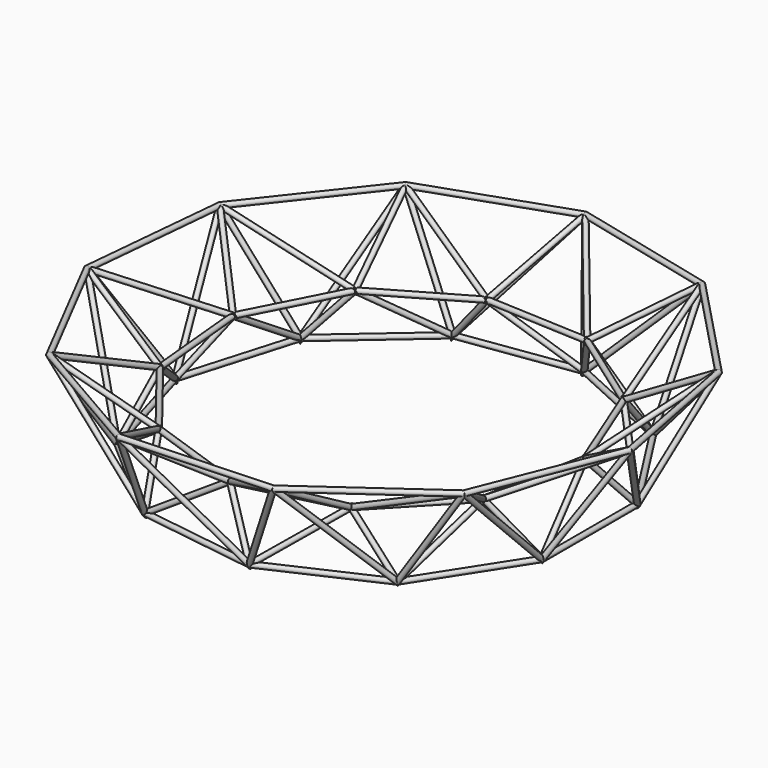
from build123d import *

# Parameters (mm, degrees)
F3_R      = 0.5
F8_R      = 0.5
F13_R     = 0.5
F18_R     = 0.5
F23_R     = 0.5
F28_R     = 0.5
F30_COUNT = 11
F30_ANGLE = 327.2727272727


with BuildPart() as f4:
    # F4: sweep along a path in F1
    with BuildLine(Plane.XY) as f4_path:
        Line((40, 11.7450597175), (40, -11.7450597175))
        Line((40, -11.7450597175), (27.3002826265, -31.5062056789))
        Line((27.3002826265, -31.5062056789), (5.9329184137, -41.2643539494))
        Line((5.9329184137, -41.2643539494), (-17.3181054755, -37.921361401))
        Line((-17.3181054755, -37.921361401), (-35.0707532401, -22.5386045473))
        Line((-35.0707532401, -22.5386045473), (-41.6886846491, 0))
        Line((-41.6886846491, 0), (-35.0707532401, 22.5386045473))
        Line((-35.0707532401, 22.5386045473), (-17.3181054755, 37.921361401))
        Line((-17.3181054755, 37.921361401), (5.9329184137, 41.2643539494))
        Line((5.9329184137, 41.2643539494), (27.3002826265, 31.5062056789))
        Line((27.3002826265, 31.5062056789), (40, 11.7450597175))
    # F3 (on line) → F4 (sweep)
    with BuildSketch(Plane.XZ):
        with Locations((40, 0)):
            Circle(F3_R)
    sweep(path=f4_path.line, transition=Transition.RIGHT)



with BuildPart() as f9:
    # F9: sweep along a path in F6
    with BuildLine(Plane.XY.offset(10)) as f9_path:
        Line((36.312425675, 3.4674162366), (32.4225831334, -16.7150033419))
        Line((32.4225831334, -16.7150033419), (18.238799534, -31.5905274619))
        Line((18.238799534, -31.5905274619), (-1.7356740483, -36.4362823208))
        Line((-1.7356740483, -36.4362823208), (-21.1590833839, -29.7137749893))
        Line((-21.1590833839, -29.7137749893), (-33.8646332481, -13.5573540462))
        Line((-33.8646332481, -13.5573540462), (-35.818401332, 6.9034310149))
        Line((-35.818401332, 6.9034310149), (-26.4000800738, 25.172425506))
        Line((-26.4000800738, 25.172425506), (-8.5999199262, 35.4493527589))
        Line((-8.5999199262, 35.4493527589), (11.9306540339, 34.4713609839))
        Line((11.9306540339, 34.4713609839), (28.6733296361, 22.5489556596))
        Line((28.6733296361, 22.5489556596), (36.312425675, 3.4674162366))
    # F8 (on line) → F9 (sweep)
    with BuildSketch(Plane(origin=(0, 0, 0), x_dir=(0.9819286973, -0.1892512444, 0), z_dir=(-0.1892512444, -0.9819286973, 0))):
        with Locations((35, 10)):
            Circle(F8_R)
    sweep(path=f9_path.line, transition=Transition.RIGHT)


with BuildPart() as f14:
    # F14: sweep along a path in F11
    with BuildLine(Plane.XY.offset(20)) as f14_path:
        Line((46.3179759048, 23.8785762027), (51.8748938214, -4.9534517666))
        Line((51.8748938214, -4.9534517666), (40.9618994802, -32.2127937994))
        Line((40.9618994802, -32.2127937994), (17.0437914769, -49.2448014056))
        Line((17.0437914769, -49.2448014056), (-12.2855998946, -50.6419325127))
        Line((-12.2855998946, -50.6419325127), (-37.7144001054, -35.9606078658))
        Line((-37.7144001054, -35.9606078658), (-51.1691447601, -9.862044307))
        Line((-51.1691447601, -9.862044307), (-48.3780474973, 19.3676486374))
        Line((-48.3780474973, 19.3676486374), (-30.227261977, 42.4482499847))
        Line((-30.227261977, 42.4482499847), (-2.4795343547, 52.0518318868))
        Line((-2.4795343547, 52.0518318868), (26.0554279057, 45.1293249456))
        Line((26.0554279057, 45.1293249456), (46.3179759048, 23.8785762027))
    # F13 (on line) → F14 (sweep)
    with BuildSketch(Plane(origin=(0, 0, 0), x_dir=(0.9819286973, 0.1892512444, 0), z_dir=(0.1892512444, -0.9819286973, 0))):
        with Locations((50, 20)):
            Circle(F13_R)
    sweep(path=f14_path.line, transition=Transition.RIGHT)


with BuildPart() as f19:
    # F19: sweep along a path in F16
    with BuildLine(Plane(origin=(35.2118241749, 0, 12.9846218764), x_dir=(0, -1, 0), z_dir=(-0.9382406964, 0, -0.3459832303))) as f19_path:
        Line((-11.7450597175, -13.8393292108), (-3.4674162366, -3.18108337))
        Line((-3.4674162366, -3.18108337), (11.7450597175, -13.8393292108))
    # F18 (on line) → F19 (sweep)
    with BuildSketch(Plane(origin=(4.95525664, 11.1232599555, -13.4377132588), x_dir=(0.9619422186, -0.1742395051, 0.2104940924), z_dir=(-0.2732529379, -0.6133816435, 0.7410099806))):
        with Locations((36.4312353511, 9.0475356056)):
            Circle(F18_R)
    sweep(path=f19_path.line, transition=Transition.RIGHT)


with BuildPart() as f24:
    # F24: sweep along a path in F21
    with BuildLine(Plane(origin=(34.5154752141, 6.6523125886, -14.9391942603), x_dir=(0.1598434516, -0.9847149791, -0.069184398), z_dir=(-0.9036979582, -0.1741735052, 0.3911439511))) as f24_path:
        Line((-17.4936544884, 36.7527213802), (-5.171798172, 15.8886158699))
        Line((-5.171798172, 15.8886158699), (11.7859122706, 38.9600147351))
    # F23 (on line) → F24 (sweep)
    with BuildSketch(Plane(origin=(10.5708704432, 20.3010952743, 33.4628387397), x_dir=(0.9654090881, -0.135242225, -0.2229233795), z_dir=(-0.2607398945, -0.5007445194, -0.8253905947))):
        with Locations((37.0279355159, -10.041610281)):
            Circle(F23_R)
    sweep(path=f24_path.line, transition=Transition.RIGHT)


with BuildPart() as f29:
    # F29: sweep along a path in F26
    with BuildLine(Plane(origin=(7.7313432084, 1.4900942674, -10.7770895271), x_dir=(0.8151418507, -0.0793368167, 0.5738026078), z_dir=(-0.5792613946, -0.1116434829, 0.8074601968))) as f29_path:
        Line((47.3373225327, 26.3927922247), (35.06271018, 4.8043606431))
        Line((35.06271018, 4.8043606431), (54.1544402059, -2.1675313061))
    # F28 (on line) → F29 (sweep)
    with BuildSketch(Plane(origin=(18.6705943918, 38.0877093251, 18.6602375311), x_dir=(0.9152450639, -0.361808418, -0.1772600962), z_dir=(-0.4028975962, -0.8219045528, -0.4026741029))):
        with Locations((30.2076270108, 7.4546228923)):
            Circle(F28_R)
    sweep(path=f29_path.line, transition=Transition.RIGHT)


with BuildPart() as f4_1:
    add(f4.part)

    add(f9.part)  # F30 merges F9

    add(f14.part)  # F30 merges F14

    add(f19.part)  # F30 merges F19

    add(f24.part)  # F30 merges F24

    add(f29.part)  # F30 merges F29
    # F30: F19, F24, F29 ×11 about axis
    f30_axis = Axis((0, 0, 200), (0, 0, 1))
    for i in range(1, F30_COUNT):
        add(f19.part.rotate(f30_axis, i * F30_ANGLE / (F30_COUNT - 1)))
        add(f24.part.rotate(f30_axis, i * F30_ANGLE / (F30_COUNT - 1)))
        add(f29.part.rotate(f30_axis, i * F30_ANGLE / (F30_COUNT - 1)))


solid = f4_1.part
